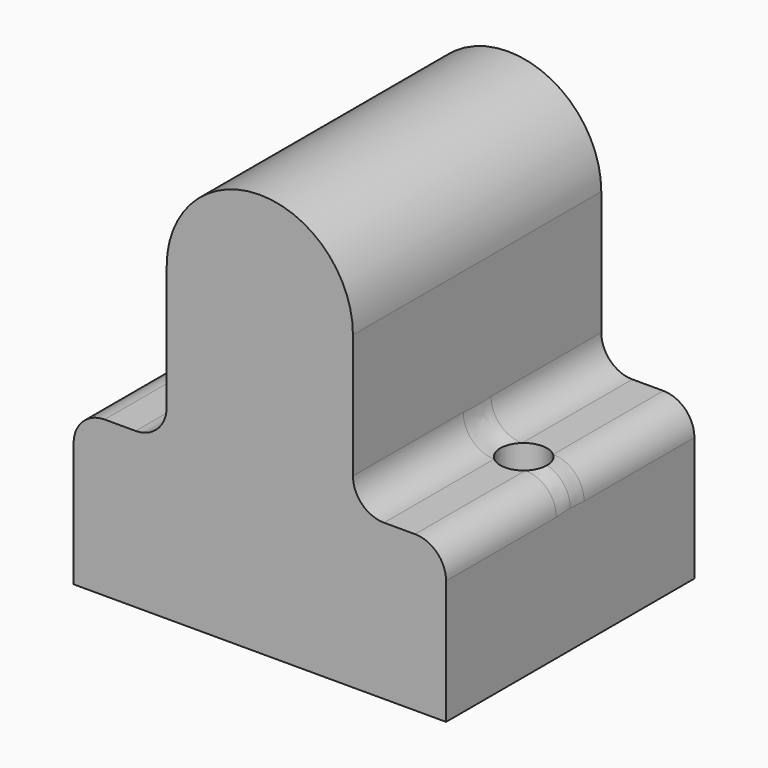
from build123d import *

# Parameters (mm, degrees)
PAD_DEPTH      = 20
SKETCH001_R    = 1.5
HOLE_DEPTH     = 25
HOLE_TIPS_R    = 1.5
SKETCH002_R    = 4
HOLE001_DEPTH  = 16
HOLE001_TIPS_R = 4
FILLET_R       = 2


with BuildPart() as part:
    # Sketch → Pad (new body)
    with BuildSketch(Plane.XZ):
        with BuildLine():
            Line((0, 0), (-24, 0))
            Line((-24, 0), (-24, 10))
            Line((-24, 10), (-18, 10))
            Line((-18, 10), (-18, 20))
            ThreePointArc((-6, 20), (-12, 26), (-18, 20))
            Line((-6, 20), (-6, 10))
            Line((-6, 10), (0, 10))
            Line((0, 10), (0, 0))
        make_face()
    extrude(amount=PAD_DEPTH)

    # Sketch001 (on Face4 of Pad) → Hole (cut)
    with BuildSketch(Plane(origin=(0, 0, 0), x_dir=(1, 0, 0), z_dir=(0, 0, -1))):
        with Locations((-21, 10)):
            Circle(SKETCH001_R)
        with Locations((-3, 10)):
            Circle(SKETCH001_R)
    extrude(amount=-HOLE_DEPTH, mode=Mode.SUBTRACT)

    # Hole tips → Hole tip 1 section 0
    with BuildSketch(Plane(origin=(0, 0, 25), x_dir=(1, 0, 0), z_dir=(0, 0, -1)), mode=Mode.PRIVATE) as hole_tip_1_s0:
        with Locations((-21, 10)):
            Circle(HOLE_TIPS_R)
    loft([hole_tip_1_s0.sketch, Vertex(-21, -10, 25.901291)], mode=Mode.SUBTRACT)

    # Hole tips → Hole tip 2 section 0
    with BuildSketch(Plane(origin=(0, 0, 25), x_dir=(1, 0, 0), z_dir=(0, 0, -1)), mode=Mode.PRIVATE) as hole_tip_2_s0:
        with Locations((-3, 10)):
            Circle(HOLE_TIPS_R)
    loft([hole_tip_2_s0.sketch, Vertex(-3, -10, 25.901291)], mode=Mode.SUBTRACT)

    # Sketch002 (on Face4 of Hole) → Hole001 (cut)
    with BuildSketch(Plane(origin=(0, 0, 0), x_dir=(1, 0, 0), z_dir=(0, 1, 0))):
        with Locations((-12, -20)):
            Circle(SKETCH002_R)
    extrude(amount=-HOLE001_DEPTH, mode=Mode.SUBTRACT)

    # Hole001 tips → Hole001 tip 1 section 0
    with BuildSketch(Plane(origin=(0, -16, 0), x_dir=(1, 0, 0), z_dir=(0, 1, 0)), mode=Mode.PRIVATE) as hole001_tip_1_s0:
        with Locations((-12, -20)):
            Circle(HOLE001_TIPS_R)
    loft([hole001_tip_1_s0.sketch, Vertex(-12, -18.403442, 20)], mode=Mode.SUBTRACT)

    # Fillet
    fillet_edges = [part.edges().sort_by_distance(p)[0] for p in [
        (0, -10, 10),
        (-6, -10, 10),
        (-24, -10, 10),
        (-18, -10, 10),
    ]]
    fillet(fillet_edges, radius=FILLET_R)


solid = part.part
